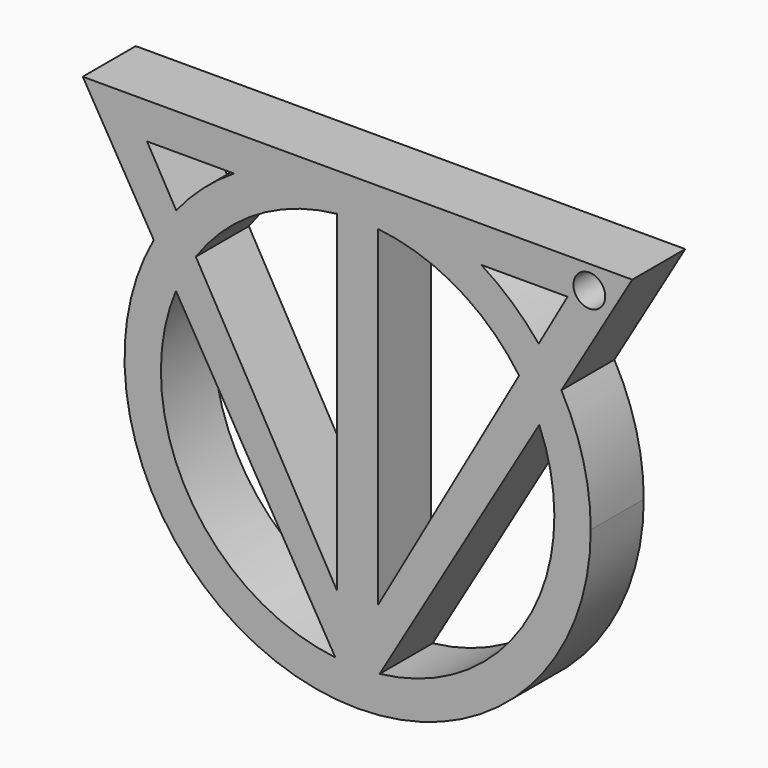
from build123d import *

# Parameters (mm, degrees)
F0_R     = 1.524
F1_DEPTH = 6.35


with BuildPart() as f1:
    # F0 (on Front) → F1 (new body)
    with BuildSketch(Plane.XZ):
        with BuildLine():
            Line((0.4658376212, -20.3039246441), (2.4259796629, -16.8604321872))
            Line((2.4259796629, -16.8604321872), (2.4259796629, 14.9156927522))
            ThreePointArc((2.4259796629, 14.9156927522), (0.4656689935, 15.014611975), (-1.4943041268, 14.9092160508))
            Line((-1.4943041268, 14.9092160508), (-1.4943041268, -16.8604321872))
            Line((-1.4943041268, -16.8604321872), (0.4658376212, -20.3039246441))
        make_face()
        with BuildLine():
            Line((2.6050335572, -22.5794433308), (17.902118251, 3.4117695396))
            ThreePointArc((17.902118251, 3.4117695396), (17.030441562, 5.2245700801), (15.9706189802, 6.9342022466))
            Line((15.9706189802, 6.9342022466), (2.4259796629, -16.8604321872))
            Line((2.4259796629, -16.8604321872), (0.4658376212, -20.3039246441))
            Line((0.4658376212, -20.3039246441), (-1.4943041268, -16.8604321872))
            Line((-1.4943041268, -16.8604321872), (-15.0110199294, 6.8851509873))
            ThreePointArc((-15.0110199294, 6.8851509873), (-16.0578905175, 5.1859996444), (-16.9193090913, 3.3857187344))
            Line((-16.9193090913, 3.3857187344), (-1.639425425, -22.5762679419))
            ThreePointArc((-1.639425425, -22.5762679419), (0.4827144351, -22.6976630299), (2.6050335572, -22.5794433308))
        make_face()
        with BuildLine():
            Line((-1.639425425, -22.5762679419), (0.483738501, -26.1837269226))
            Line((0.483738501, -26.1837269226), (2.6050335572, -22.5794433308))
            ThreePointArc((2.6050335572, -22.5794433308), (0.4827144351, -22.6976630299), (-1.639425425, -22.5762679419))
        make_face()
        with BuildLine():
            ThreePointArc((-16.8911908914, 10.1881542177), (-18.0358110069, 8.6371118175), (-19.0424730173, 6.9931777152))
            Line((-19.0424730173, 6.9931777152), (-16.9193090913, 3.3857187344))
            ThreePointArc((-16.9193090913, 3.3857187344), (-16.0578905175, 5.1859996444), (-15.0110199294, 6.8851509873))
            Line((-15.0110199294, 6.8851509873), (-16.8911908914, 10.1881542177))
        make_face()
        with BuildLine():
            Line((20.0234133071, 7.0160531315), (26.8153084204, 18.556133821))
            Line((26.8153084204, 18.556133821), (-25.8478314183, 18.556133821))
            Line((-25.8478314183, 18.556133821), (-19.0424730173, 6.9931777152))
            ThreePointArc((-19.0424730173, 6.9931777152), (-18.0358110069, 8.6371118175), (-16.8911908914, 10.1881542177))
            Line((-16.8911908914, 10.1881542177), (-19.6869364153, 15.0995993381))
            Line((-19.6869364153, 15.0995993381), (-11.352599359, 15.0995993381))
            ThreePointArc((-11.352599359, 15.0995993381), (0.4968212041, 18.5007001546), (12.3462417671, 15.0995993381))
            Line((12.3462417671, 15.0995993381), (20.6186146784, 15.0995993381))
            Line((20.6186146784, 15.0995993381), (17.8484611094, 10.2331137894))
            ThreePointArc((17.8484611094, 10.2331137894), (19.0059640485, 8.6719263757), (20.0234133071, 7.0160531315))
        make_face()
        with Locations((22.7036452283, 16.2970258397)):
            Circle(F0_R, mode=Mode.SUBTRACT)
        with BuildLine():
            Line((17.902118251, 3.4117695396), (20.0234133071, 7.0160531315))
            ThreePointArc((20.0234133071, 7.0160531315), (19.0059640485, 8.6719263757), (17.8484611094, 10.2331137894))
            Line((17.8484611094, 10.2331137894), (15.9706189802, 6.9342022466))
            ThreePointArc((15.9706189802, 6.9342022466), (17.030441562, 5.2245700801), (17.902118251, 3.4117695396))
        make_face()
        with BuildLine():
            Line((-11.352599359, 15.0995993381), (12.3462417671, 15.0995993381))
            ThreePointArc((12.3462417671, 15.0995993381), (0.4968212041, 18.5007001546), (-11.352599359, 15.0995993381))
        make_face()
        with BuildLine():
            Line((15.9706189802, 6.9342022466), (17.8484611094, 10.2331137894))
            ThreePointArc((17.8484611094, 10.2331137894), (15.2987181608, 12.8940288469), (12.3462417671, 15.0995993381))
            Line((12.3462417671, 15.0995993381), (-11.352599359, 15.0995993381))
            ThreePointArc((-11.352599359, 15.0995993381), (-14.3267222457, 12.8748584397), (-16.8911908914, 10.1881542177))
            Line((-16.8911908914, 10.1881542177), (-15.0110199294, 6.8851509873))
            ThreePointArc((-15.0110199294, 6.8851509873), (-9.1286586211, 12.3728192347), (-1.4943041268, 14.9092160508))
            ThreePointArc((-1.4943041268, 14.9092160508), (0.4656689935, 15.014611975), (2.4259796629, 14.9156927522))
            ThreePointArc((2.4259796629, 14.9156927522), (10.0697919604, 12.4038759593), (15.9706189802, 6.9342022466))
        make_face()
        with BuildLine():
            Line((-16.9193090913, 3.3857187344), (-19.0424730173, 6.9931777152))
            ThreePointArc((-19.0424730173, 6.9931777152), (-18.7580641808, -15.1739457622), (0.483738501, -26.1837269226))
            Line((0.483738501, -26.1837269226), (-1.639425425, -22.5762679419))
            ThreePointArc((-1.639425425, -22.5762679419), (-15.7537187529, -13.4057433051), (-16.9193090913, 3.3857187344))
        make_face()
        with BuildLine():
            ThreePointArc((22.8390366579, -3.8415152992), (22.1236785721, 1.7668384495), (20.0234133071, 7.0160531315))
            Line((20.0234133071, 7.0160531315), (17.902118251, 3.4117695396))
            ThreePointArc((17.902118251, 3.4117695396), (18.9867029033, -0.143031692), (19.3529742116, -3.8415152992))
            ThreePointArc((19.3529742116, -3.8415152992), (14.5557557466, -16.4073764225), (2.6050335572, -22.5794433308))
            Line((2.6050335572, -22.5794433308), (0.483738501, -26.1837269226))
            ThreePointArc((0.483738501, -26.1837269226), (16.2905271469, -19.6444721104), (22.8390366579, -3.8415152992))
        make_face()
    extrude(amount=F1_DEPTH)


solid = f1.part
